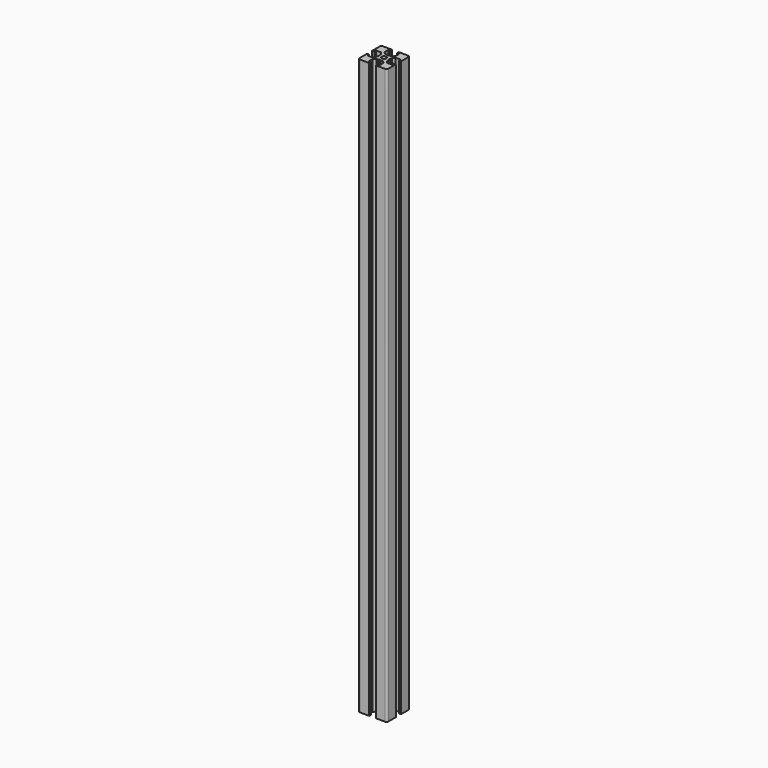
from build123d import *

# Parameters (mm, degrees)
F0_R     = 1.25
F1_DEPTH = 150


with BuildPart() as f1:
    # F0 (on Top) → F1 (new body, symmetric)
    with BuildSketch(Plane.XY):
        with BuildLine():
            Line((1.7, -7.5), (6.5, -7.5))
            ThreePointArc((6.5, -7.5), (7.207107, -7.207107), (7.5, -6.5))
            Line((7.5, -6.5), (7.5, -1.7))
            Line((7.5, -1.7), (6.4, -1.7))
            Line((6.4, -1.7), (6.4, -2.85))
            Line((6.4, -2.85), (3.8, -2.85))
            Line((3.8, -2.85), (2.8, -1.7))
            Line((2.8, -1.7), (2.8, -0.519615))
            Line((2.8, -0.519615), (2.5, 0))
            Line((2.5, 0), (2.8, 0.519615))
            Line((2.8, 0.519615), (2.8, 1.7))
            Line((2.8, 1.7), (3.8, 2.85))
            Line((3.8, 2.85), (6.4, 2.85))
            Line((6.4, 2.85), (6.4, 1.7))
            Line((6.4, 1.7), (7.5, 1.7))
            Line((7.5, 1.7), (7.5, 6.5))
            ThreePointArc((7.5, 6.5), (7.207107, 7.207107), (6.5, 7.5))
            Line((6.5, 7.5), (1.7, 7.5))
            Line((1.7, 7.5), (1.7, 6.4))
            Line((1.7, 6.4), (2.85, 6.4))
            Line((2.85, 6.4), (2.85, 3.8))
            Line((2.85, 3.8), (1.7, 2.8))
            Line((1.7, 2.8), (0.519615, 2.8))
            Line((0.519615, 2.8), (0, 2.5))
            Line((0, 2.5), (-0.519615, 2.8))
            Line((-0.519615, 2.8), (-1.7, 2.8))
            Line((-1.7, 2.8), (-2.85, 3.8))
            Line((-2.85, 3.8), (-2.85, 6.4))
            Line((-2.85, 6.4), (-1.7, 6.4))
            Line((-1.7, 6.4), (-1.7, 7.5))
            Line((-1.7, 7.5), (-6.5, 7.5))
            ThreePointArc((-6.5, 7.5), (-7.207107, 7.207107), (-7.5, 6.5))
            Line((-7.5, 6.5), (-7.5, 1.7))
            Line((-7.5, 1.7), (-6.4, 1.7))
            Line((-6.4, 1.7), (-6.4, 2.85))
            Line((-6.4, 2.85), (-3.8, 2.85))
            Line((-3.8, 2.85), (-2.8, 1.7))
            Line((-2.8, 1.7), (-2.8, 0.519615))
            Line((-2.8, 0.519615), (-2.5, 0))
            Line((-2.5, 0), (-2.8, -0.519615))
            Line((-2.8, -0.519615), (-2.8, -1.7))
            Line((-2.8, -1.7), (-3.8, -2.85))
            Line((-3.8, -2.85), (-6.4, -2.85))
            Line((-6.4, -2.85), (-6.4, -1.7))
            Line((-6.4, -1.7), (-7.5, -1.7))
            Line((-7.5, -1.7), (-7.5, -6.5))
            ThreePointArc((-7.5, -6.5), (-7.207107, -7.207107), (-6.5, -7.5))
            Line((-6.5, -7.5), (-1.7, -7.5))
            Line((-1.7, -7.5), (-1.7, -6.4))
            Line((-1.7, -6.4), (-2.85, -6.4))
            Line((-2.85, -6.4), (-2.85, -3.8))
            Line((-2.85, -3.8), (-1.7, -2.8))
            Line((-1.7, -2.8), (-0.519615, -2.8))
            Line((-0.519615, -2.8), (0, -2.5))
            Line((0, -2.5), (0.519615, -2.8))
            Line((0.519615, -2.8), (1.7, -2.8))
            Line((1.7, -2.8), (2.85, -3.8))
            Line((2.85, -3.8), (2.85, -6.4))
            Line((2.85, -6.4), (1.7, -6.4))
            Line((1.7, -6.4), (1.7, -7.5))
        make_face()
        Circle(F0_R, mode=Mode.SUBTRACT)
    extrude(amount=F1_DEPTH, both=True)


solid = f1.part
